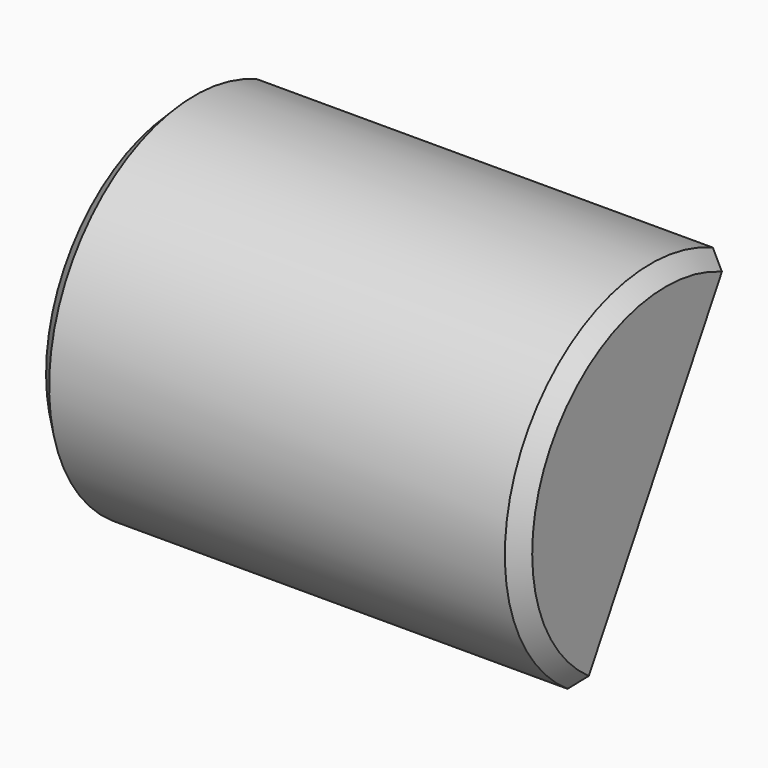
from build123d import *

# Parameters (mm, degrees)
PAD005_DEPTH            = 4
SKETCH014_R             = 2.5
PAD006_DEPTH            = 2
CHAMFER_SIZE            = 0.25
BODY005_ROLL_ANGLE      = -150
BODY005_PLACEMENT_ANGLE = 180


with BuildPart() as part:
    # Sketch013 → Pad005 (new body, symmetric)
    with BuildSketch(Plane.YZ):
        with BuildLine():
            ThreePointArc((0, 3), (-3, 0), (0, -3))
            Line((0, 3), (0, -3))
        make_face()
    extrude(amount=PAD005_DEPTH, both=True)

    # Sketch014 (on Face2 of Pad005) → Pad006 (join)
    with BuildSketch(Plane.ZX):
        Circle(SKETCH014_R)
    extrude(amount=PAD006_DEPTH)

    # Chamfer
    chamfer_edges = [part.edges().sort_by_distance(p)[0] for p in [
        (0, 2, -2.5),
        (-4, -3, 0),
        (-4, 0, 0),
        (4, -3, 0),
        (4, 0, 0),
        (0, 0, -3),
        (0, 0, 3),
    ]]
    chamfer(chamfer_edges, length=CHAMFER_SIZE)


with BuildPart() as part_1:
    # Body005 roll: moved
    add(part.part.rotate(Axis((0, 0, 0), (1, 0, 0)), BODY005_ROLL_ANGLE))


with BuildPart() as part_2:
    # Body005 placement: moved
    add(part_1.part.moved(Location((0, 6.772758664, 16.05))).rotate(Axis((0, 6.772758664, 16.05), (0, 0, 1)), BODY005_PLACEMENT_ANGLE))


solid = part_2.part
